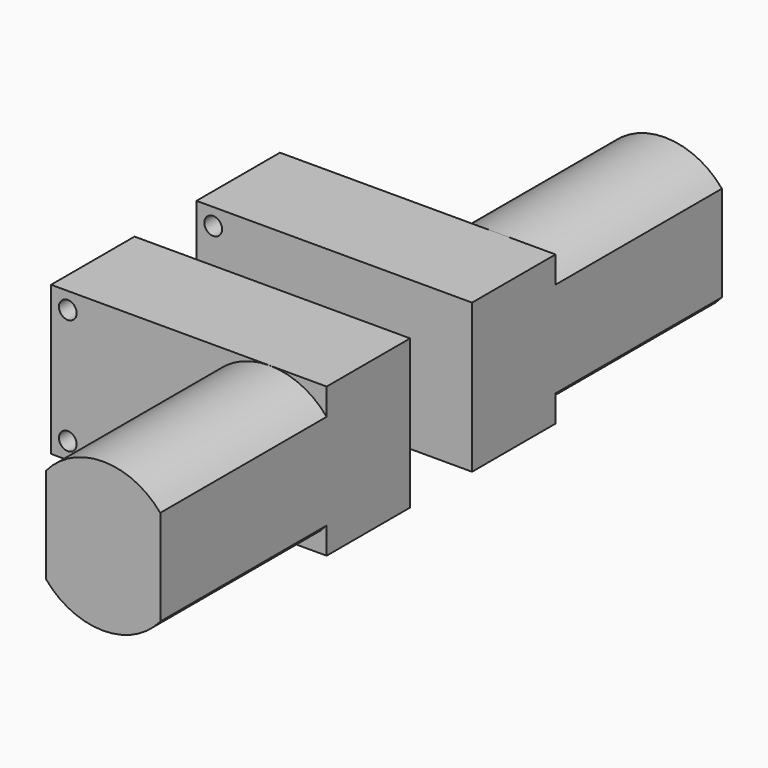
from build123d import *

# Parameters (mm, degrees)
F0_W     = 42
F0_H     = 22.7
F1_DEPTH = 15.9
F2_R     = 1.35
F3_DEPTH = 15.9
F5_DEPTH = 5.9
F7_DEPTH = 31.7


with BuildPart() as f1:
    # F0 (on Front) → F1 (new body)
    with BuildSketch(Plane.XZ):
        with Locations((21, 11.35)):
            Rectangle(F0_W, F0_H)
    extrude(amount=F1_DEPTH)

    # F2 (on face) → F3 (cut, through all)
    with BuildSketch(Plane.XZ.offset(15.9)):
        with Locations((2.55, 20.15)):
            Circle(F2_R)
        with Locations((2.55, 2.55)):
            Circle(F2_R)
    extrude(amount=-F3_DEPTH, mode=Mode.SUBTRACT)

    # F4 (on face) → F5 (join)
    with BuildSketch(Plane.XZ.offset(15.9)):
        with BuildLine():
            Line((13.847548, 13.75), (8.752452, 13.75))
            ThreePointArc((8.752452, 13.75), (7.8, 11.35), (8.752452, 8.95))
            Line((8.752452, 8.95), (13.847548, 8.95))
            ThreePointArc((13.847548, 8.95), (14.8, 11.35), (13.847548, 13.75))
        make_face()
    extrude(amount=F5_DEPTH)

    # F6 (on face) → F7 (join)
    with BuildSketch(Plane(origin=(0, 0, 0), x_dir=(-1, 0, 0), z_dir=(0, 1, 0))):
        with BuildLine():
            Line((-42, 18.639204), (-42, 4.060796))
            ThreePointArc((-42, 4.060796), (-33.3, 0), (-24.6, 4.060796))
            Line((-24.6, 4.060796), (-24.6, 18.639204))
            ThreePointArc((-24.6, 18.639204), (-33.3, 22.7), (-42, 18.639204))
        make_face()
    extrude(amount=F7_DEPTH)


with BuildPart() as f8_1:
    # F8: instance of F1
    add(f1.part.mirror(Plane(origin=(11.3, -21.8, 11.35), x_dir=(1, 0, 0), z_dir=(0, -1, 0))))


solid = Compound([f1.part, f8_1.part])
